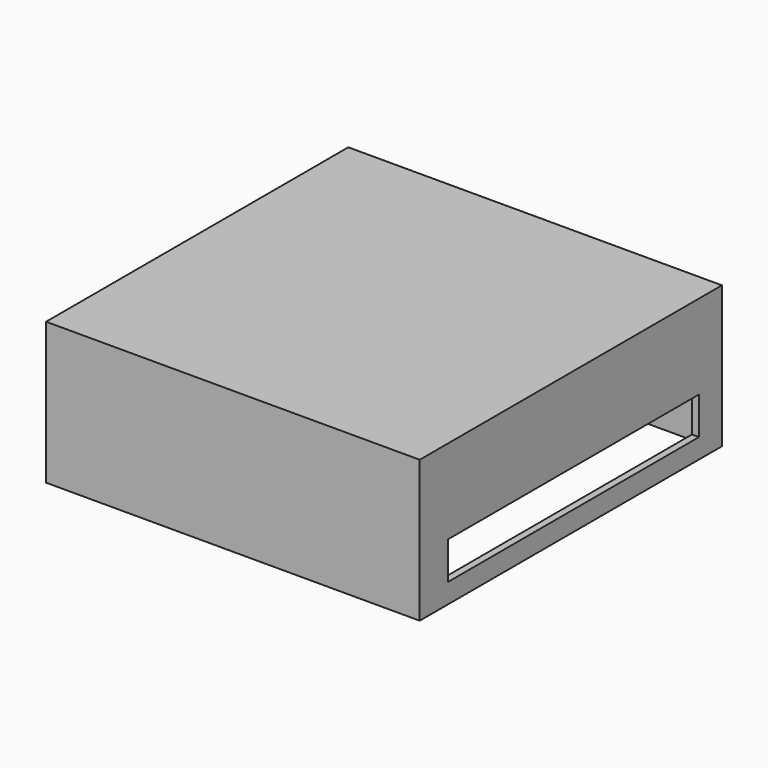
from build123d import *

# Parameters (mm, degrees)
F0_W     = 29
F0_H     = 29.32
F0_W_2   = 27.91
F0_H_2   = 28.32
F0_R     = 1.525
F0_R_2   = 1.4
F1_DEPTH = 11
F2_DEPTH = 5.5
F3_W     = 24.3599908426
F3_H     = 2.9126071604
F4_DEPTH = 10


with BuildPart() as f1:
    # F0 (on Top) → F1 (new body)
    with BuildSketch(Plane.XY):
        with Locations((2, 1.5)):
            Rectangle(F0_W, F0_H)
        with Locations((2, 1.5)):
            Rectangle(F0_W_2, F0_H_2, mode=Mode.SUBTRACT)
        with Locations((2, 1.5)):
            Rectangle(F0_W_2, F0_H_2)
        with Locations((-9.435, -10.14)):
            Circle(F0_R, mode=Mode.SUBTRACT)
        with Locations((3.065, -10.14)):
            Circle(F0_R, mode=Mode.SUBTRACT)
        with Locations((-9.435, 13.14)):
            Circle(F0_R, mode=Mode.SUBTRACT)
        with Locations((3.065, 13.14)):
            Circle(F0_R, mode=Mode.SUBTRACT)
        with Locations((3.065, 13.14)):
            Circle(F0_R)
        with Locations((3.065, 13.14)):
            Circle(F0_R_2, mode=Mode.SUBTRACT)
        with Locations((3.065, -10.14)):
            Circle(F0_R)
        with Locations((3.065, -10.14)):
            Circle(F0_R_2, mode=Mode.SUBTRACT)
        with Locations((-9.435, -10.14)):
            Circle(F0_R)
        with Locations((-9.435, -10.14)):
            Circle(F0_R_2, mode=Mode.SUBTRACT)
        with Locations((-9.435, 13.14)):
            Circle(F0_R)
        with Locations((-9.435, 13.14)):
            Circle(F0_R_2, mode=Mode.SUBTRACT)
        with Locations((3.065, 13.14)):
            Circle(F0_R_2)
        with Locations((3.065, -10.14)):
            Circle(F0_R_2)
        with Locations((-9.435, -10.14)):
            Circle(F0_R_2)
        with Locations((-9.435, 13.14)):
            Circle(F0_R_2)
    extrude(amount=F1_DEPTH)

    # F0 (on Top) → F2 (cut)
    with BuildSketch(Plane.XY):
        with Locations((2, 1.5)):
            Rectangle(F0_W_2, F0_H_2)
        with Locations((-9.435, -10.14)):
            Circle(F0_R, mode=Mode.SUBTRACT)
        with Locations((3.065, -10.14)):
            Circle(F0_R, mode=Mode.SUBTRACT)
        with Locations((-9.435, 13.14)):
            Circle(F0_R, mode=Mode.SUBTRACT)
        with Locations((3.065, 13.14)):
            Circle(F0_R, mode=Mode.SUBTRACT)
        with Locations((-9.435, -10.14)):
            Circle(F0_R_2)
        with Locations((3.065, -10.14)):
            Circle(F0_R_2)
        with Locations((3.065, 13.14)):
            Circle(F0_R_2)
        with Locations((-9.435, 13.14)):
            Circle(F0_R_2)
    extrude(amount=F2_DEPTH, mode=Mode.SUBTRACT)

    # F3 (on face) → F4 (cut)
    with BuildSketch(Plane.YZ.offset(16.5)):
        with Locations((1.7549390905, 2.9909135192)):
            Rectangle(F3_W, F3_H)
    extrude(amount=-F4_DEPTH, mode=Mode.SUBTRACT)


solid = f1.part
